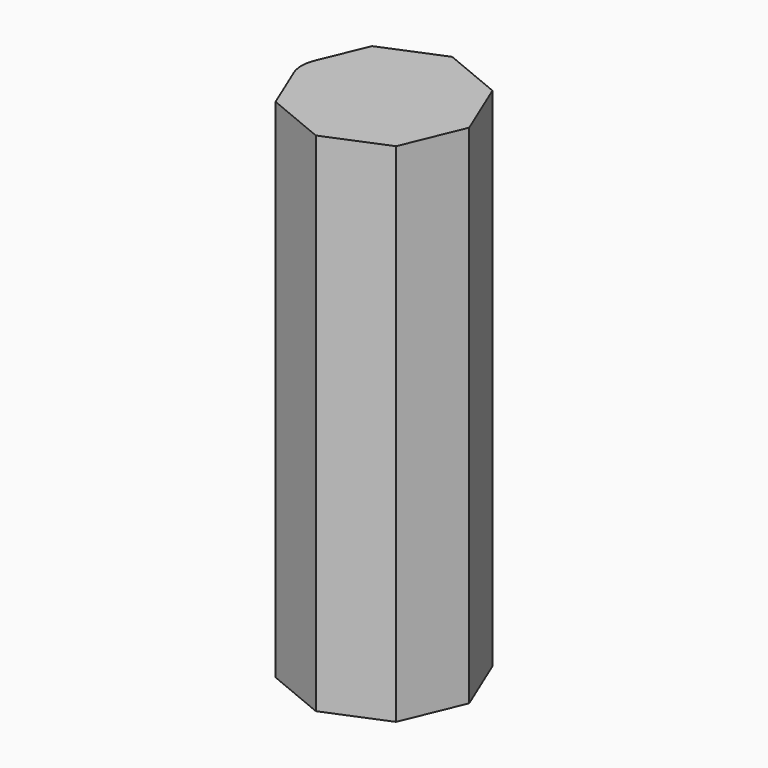
from build123d import *

# Parameters (mm, degrees)
F1_DEPTH = 300
F2_R     = 20


with BuildPart() as f1:
    # F0 (on Top) → F1 (new body)
    with BuildSketch(Plane.XY):
        Polygon((35.661297, 35.661297), (0, 50.432689), (-35.661297, 35.661297), (-50.432689, 0), (-35.661297, -35.661297), (0, -50.432689), (35.661297, -35.661297), (50.432689, 0), align=None)
    extrude(amount=F1_DEPTH)

    # F2
    f2_edges = [f1.edges().sort_by_distance(p)[0] for p in [
        (-50.432689, 0, 150),
    ]]
    fillet(f2_edges, radius=F2_R)


solid = f1.part
